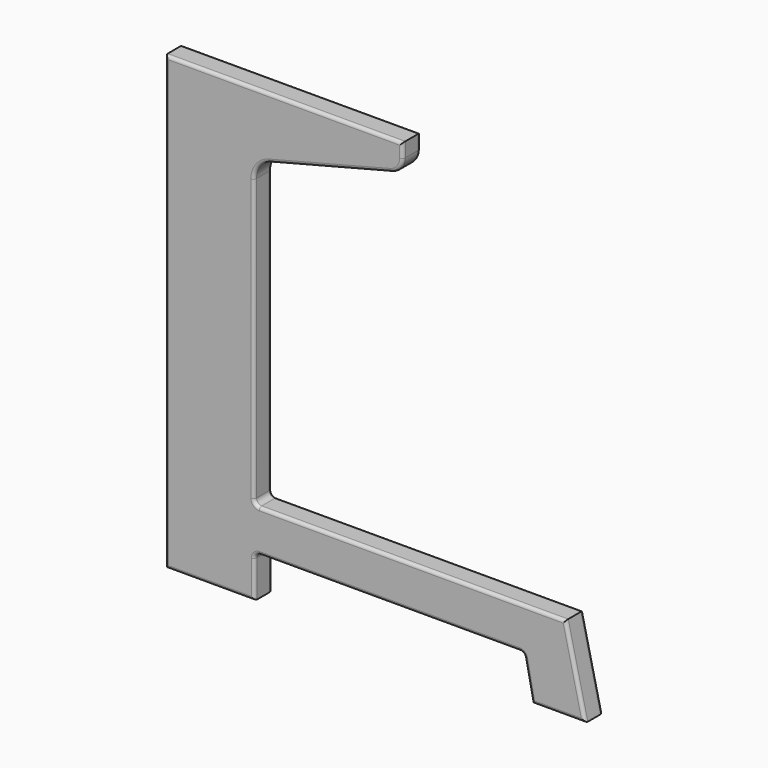
from build123d import *

# Parameters (mm, degrees)
F1_DEPTH = 21
F2_R     = 3


with BuildPart() as f1:
    # F0 (on Front) → F1 (new body)
    with BuildSketch(Plane.XZ):
        with BuildLine():
            Line((400, 0), (381.3953488372, 80))
            Line((381.3953488372, 80), (89.5979005098, 80))
            ThreePointArc((89.5979005098, 80), (86.0623666039, 81.4644660941), (84.5979005098, 85))
            Line((84.5979005098, 85), (84.5979005098, 352.7062674352))
            ThreePointArc((84.5979005098, 352.7062674352), (88.7932713354, 364.9624371736), (99.6192701756, 372.0766892167))
            Line((99.6192701756, 372.0766892167), (214.9680088476, 401.7238871894))
            ThreePointArc((214.9680088476, 401.7238871894), (223.0875079778, 407.0595762217), (226.2340360969, 416.2517035256))
            Line((226.2340360969, 416.2517035256), (226.2340360969, 430))
            Line((226.2340360969, 430), (0, 430))
            Line((0, 430), (0, 0))
            Line((0, 0), (85, 0))
            Line((85, 0), (85, 35))
            ThreePointArc((85, 35), (86.4644660941, 38.5355339059), (90, 40))
            Line((90, 40), (337.2612395977, 40))
            ThreePointArc((337.2612395977, 40), (340.4311835928, 38.8667111436), (342.1641427058, 35.9805820273))
            Line((342.1641427058, 35.9805820273), (349.360269427, 0))
            Line((349.360269427, 0), (400, 0))
        make_face()
    extrude(amount=F1_DEPTH)

    # F2
    f2_edges = [f1.edges().sort_by_distance(p)[0] for p in [
        (226.234036, -21, 423.125852),
        (113.117018, -21, 430),
        (0, -21, 215),
        (42.5, -21, 0),
        (85, -21, 17.5),
        (86.464466, -21, 38.535534),
        (213.63062, -21, 40),
        (340.431184, -21, 38.866711),
        (345.762206, -21, 17.990291),
        (374.680135, -21, 0),
        (390.697674, -21, 40),
        (235.496625, -21, 80),
        (86.062367, -21, 81.464466),
        (84.597901, -21, 218.853134),
        (88.793271, -21, 364.962437),
        (157.29364, -21, 386.900288),
        (223.087508, -21, 407.059576),
        (226.234036, 0, 423.125852),
        (113.117018, 0, 430),
        (0, 0, 215),
        (42.5, 0, 0),
        (85, 0, 17.5),
        (86.464466, 0, 38.535534),
        (213.63062, 0, 40),
        (340.431184, 0, 38.866711),
        (345.762206, 0, 17.990291),
        (374.680135, 0, 0),
        (390.697674, 0, 40),
        (235.496625, 0, 80),
        (86.062367, 0, 81.464466),
        (84.597901, 0, 218.853134),
        (88.793271, 0, 364.962437),
        (157.29364, 0, 386.900288),
        (223.087508, 0, 407.059576),
    ]]
    fillet(f2_edges, radius=F2_R)


solid = f1.part
